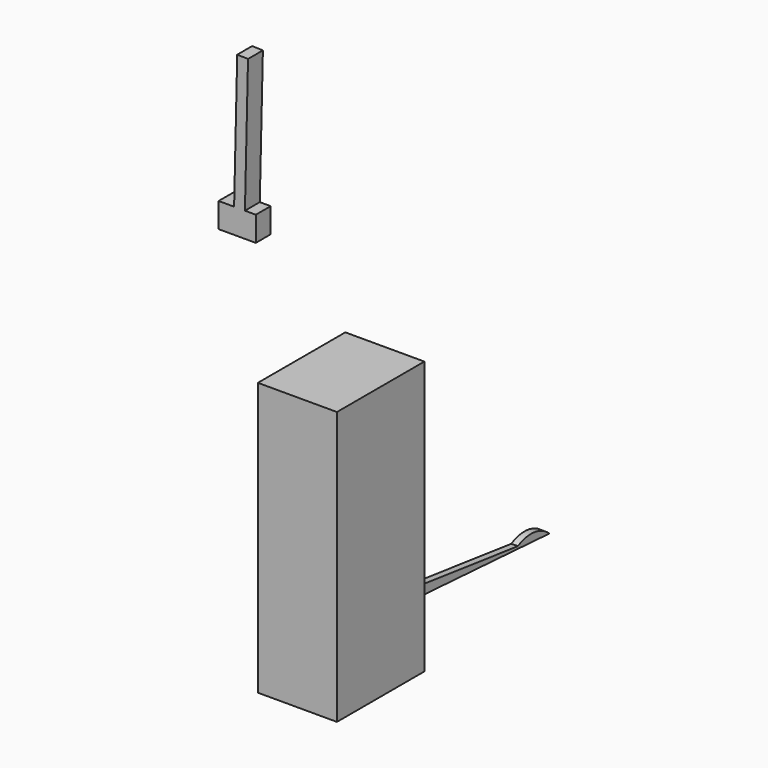
from build123d import *

# Parameters (mm, degrees)
F0_W     = 8.6468746886
F0_H     = 5.4042972624
F1_DEPTH = 4.318
F2_W     = 18.3746088296
F2_H     = 63.4104190394
F3_DEPTH = 25.4
F5_START = 28.702
F5_DEPTH = 1.524


with BuildPart() as f1:
    # F0 (on Front) → F1 (new body)
    with BuildSketch(Plane.XZ):
        Polygon((-3.6028688774, 14.7717408836), (-3.6028688774, 14.4114550203), (5.0440058112, 14.4114550203), (5.0440058112, 14.7717408836), (2.5137216441, 14.7717408836), (0, 14.7717408836), align=None)
        with Locations((0.7205684669, 11.7093063891)):
            Rectangle(F0_W, F0_H)
        Polygon((0.7205684669, 46.1166612804), (0, 14.7717408836), (2.5137216441, 14.7717408836), (3.2329623989, 46.058905452), align=None)
    extrude(amount=F1_DEPTH)


with BuildPart() as f3:
    # F2 (on Front) → F3 (new body)
    with BuildSketch(Plane.XZ):
        with Locations((31.5780965611, -37.1143282391)):
            Rectangle(F2_W, F2_H)
    extrude(amount=F3_DEPTH)

    # F4 (on Right) → F5 (join)
    with BuildSketch(Plane.YZ.offset(F5_START)):
        with BuildLine():
            Line((40.3447512022, -63.0118522667), (0, -58.0109395087))
            Line((0, -58.0109395087), (-0.3682676359, -60.9819303791))
            Line((-0.3682676359, -60.9819303791), (49.4968833778, -64.1463000746))
            ThreePointArc((49.4968833778, -64.1463000746), (45.1050205097, -62.0930208383), (40.3447512022, -63.0118522667))
        make_face()
    extrude(amount=F5_DEPTH)


solid = Compound([f1.part, f3.part])
